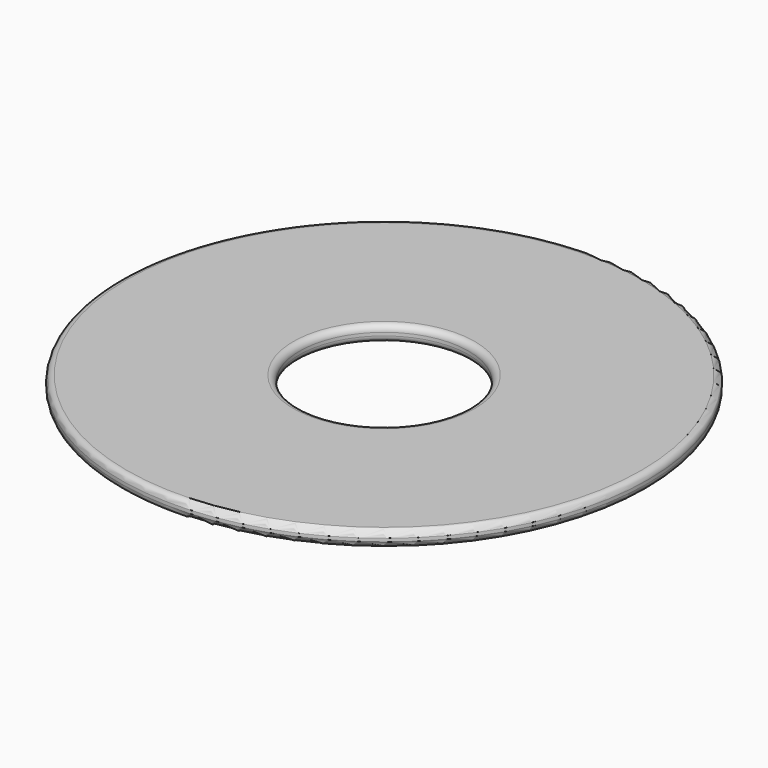
from build123d import *

# Parameters (mm, degrees)
SKETCH_R     = 50
PAD_DEPTH    = 3
SKETCH001_R  = 16
POCKET_DEPTH = 3.001
FILLET_R     = 1.2


with BuildPart() as part:
    # Sketch → Pad (new body)
    with BuildSketch(Plane.XY):
        Circle(SKETCH_R)
    extrude(amount=PAD_DEPTH)

    # Sketch001 (on Face3 of Pad) → Pocket (cut, through all)
    with BuildSketch(Plane.XY.offset(3)):
        Circle(SKETCH001_R)
    extrude(amount=-POCKET_DEPTH, mode=Mode.SUBTRACT)

    # Fillet
    fillet_edges = [part.edges().sort_by_distance(p)[0] for p in [
        (-16, 0, 3),
        (16, 0, 1.5),
        (-16, 0, 0),
        (50, 0, 1.5),
        (-50, 0, 0),
        (-50, 0, 3),
    ]]
    fillet(fillet_edges, radius=FILLET_R)


solid = part.part
